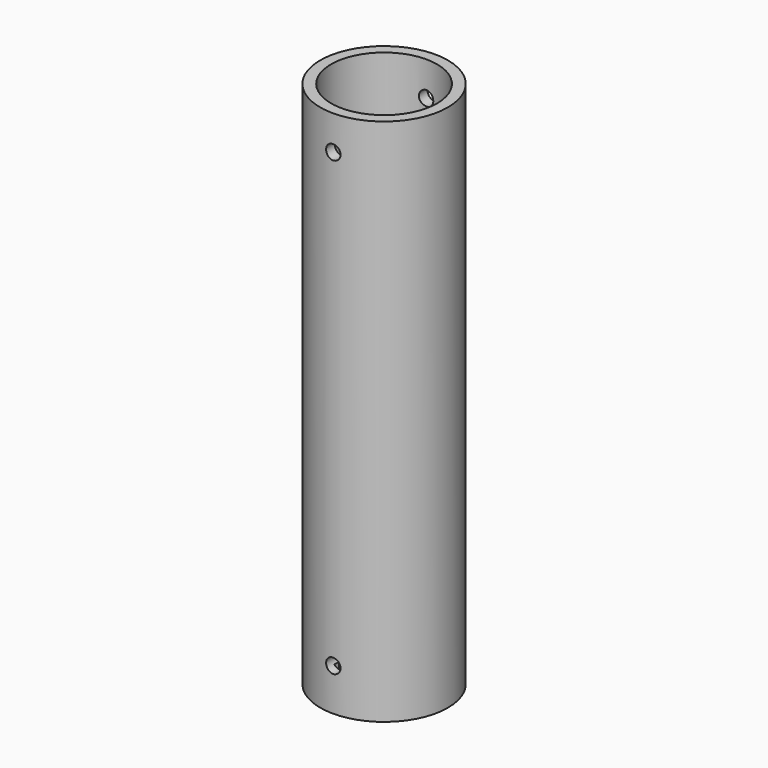
from build123d import *

# Parameters (mm, degrees)
SKETCH_R        = 13.575
PAD_DEPTH       = 41.6
SKETCH001_R     = 8.7
SKETCH001_R_2   = 3.95
POCKET_DEPTH    = 40.1
SKETCH002_R     = 12.075
POCKET001_DEPTH = 23.4
FILLET_R        = 2.5
SKETCH003_W     = 30
SKETCH003_H     = 30
PAD001_DEPTH    = 2
SKETCH004_R     = 1.25
POCKET002_DEPTH = 30.001
SKETCH006_R     = 2
POCKET004_DEPTH = 30.001
SKETCH007_W     = 30
SKETCH007_H     = 30
POCKET005_DEPTH = 2
SKETCH008_R     = 17.7
PAD002_DEPTH    = 146.6
SKETCH009_R     = 13.775
POCKET006_DEPTH = 146.601
SKETCH010_R     = 14.7
POCKET007_DEPTH = 105
SKETCH011_W     = 36
SKETCH011_H     = 36
PAD003_DEPTH    = 2
SKETCH012_R     = 2
POCKET008_DEPTH = 36.001
SKETCH013_W     = 36
SKETCH013_H     = 36
POCKET009_DEPTH = 2
SKETCH014_W     = 3.2
SKETCH014_H     = 30.5
SKETCH014_W_2   = 32.5
SKETCH014_H_2   = 3.3
POCKET010_DEPTH = 12.5


with BuildPart() as obj1:
    # Sketch → Pad (new body)
    with BuildSketch(Plane.XY):
        Circle(SKETCH_R)
    extrude(amount=PAD_DEPTH)

    # Sketch001 (on Face3 of Pad) → Pocket (cut)
    with BuildSketch(Plane.XY.offset(41.6)):
        Circle(SKETCH001_R)
        Circle(SKETCH001_R_2, mode=Mode.SUBTRACT)
    extrude(amount=-POCKET_DEPTH, mode=Mode.SUBTRACT)

    # Sketch002 (on Face3 of Pocket) → Pocket001 (cut)
    with BuildSketch(Plane.XY.offset(41.6)):
        Circle(SKETCH002_R)
    extrude(amount=-POCKET001_DEPTH, mode=Mode.SUBTRACT)

    # Fillet
    fillet_edges = [obj1.edges().sort_by_distance(p)[0] for p in [
        (-8.7, 0, 18.2),
        (-3.95, 0, 18.2),
    ]]
    fillet(fillet_edges, radius=FILLET_R)

    # Sketch003 (on Face5 of Fillet) → Pad001 (join)
    with BuildSketch(Plane.XY.offset(41.6)):
        Rectangle(SKETCH003_W, SKETCH003_H)
    extrude(amount=PAD001_DEPTH)

    # Sketch004 (on Face6 of Pad001) → Pocket002 (cut, through all)
    with BuildSketch(Plane.XZ.offset(15)):
        with Locations((0, 29.9)):
            Circle(SKETCH004_R)
    extrude(amount=-POCKET002_DEPTH, mode=Mode.SUBTRACT)

    # Sketch006 → Pocket004 (cut, through all)
    with BuildSketch(Plane.YZ.offset(15)):
        with Locations((0, 29.9)):
            Circle(SKETCH006_R)
    extrude(amount=-POCKET004_DEPTH, mode=Mode.SUBTRACT)

    # Sketch007 (on Face5 of Pocket004) → Pocket005 (cut)
    with BuildSketch(Plane.XY.offset(43.6)):
        Rectangle(SKETCH007_W, SKETCH007_H)
    extrude(amount=-POCKET005_DEPTH, mode=Mode.SUBTRACT)


with BuildPart() as obj2:
    # Sketch008 → Pad002 (new body)
    with BuildSketch(Plane.XY):
        Circle(SKETCH008_R)
    extrude(amount=PAD002_DEPTH)

    # Sketch009 (on Face3 of Pad002) → Pocket006 (cut, through all)
    with BuildSketch(Plane.XY.offset(146.6)):
        Circle(SKETCH009_R)
    extrude(amount=-POCKET006_DEPTH, mode=Mode.SUBTRACT)

    # Sketch010 (on Face3 of Pocket006) → Pocket007 (cut)
    with BuildSketch(Plane.XY.offset(146.6)):
        Circle(SKETCH010_R)
    extrude(amount=-POCKET007_DEPTH, mode=Mode.SUBTRACT)

    # Sketch011 (on Face3 of Pocket007) → Pad003 (join)
    with BuildSketch(Plane.XY.offset(146.6)):
        Rectangle(SKETCH011_W, SKETCH011_H)
    extrude(amount=PAD003_DEPTH)

    # Sketch012 (on Face6 of Pad003) → Pocket008 (cut, through all)
    with BuildSketch(Plane.XZ.offset(18)):
        with Locations((0, 11.7)):
            Circle(SKETCH012_R)
        with Locations((0, 137.1)):
            Circle(SKETCH012_R)
    extrude(amount=-POCKET008_DEPTH, mode=Mode.SUBTRACT)

    # Sketch013 (on Face5 of Pocket008) → Pocket009 (cut)
    with BuildSketch(Plane.XY.offset(148.6)):
        Rectangle(SKETCH013_W, SKETCH013_H)
    extrude(amount=-POCKET009_DEPTH, mode=Mode.SUBTRACT)

    # Sketch014 (on Face2 of Pocket009) → Pocket010 (cut)
    with BuildSketch(Plane(origin=(0, 0, 0), x_dir=(1, 0, 0), z_dir=(0, 0, -1))):
        Rectangle(SKETCH014_W, SKETCH014_H)
        Rectangle(SKETCH014_W_2, SKETCH014_H_2)
    extrude(amount=-POCKET010_DEPTH, mode=Mode.SUBTRACT)


solid = Compound([obj1.part, obj2.part])
